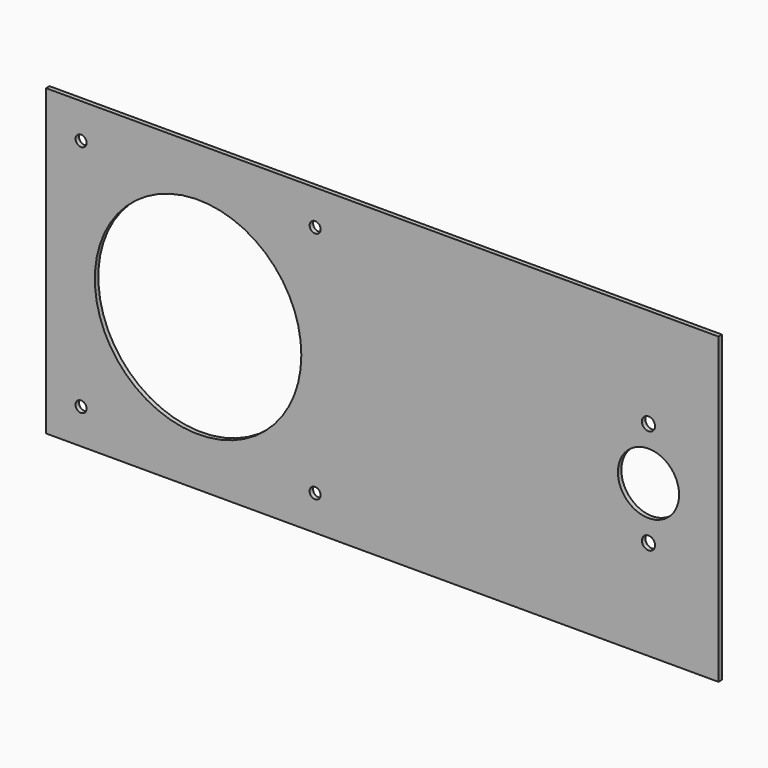
from build123d import *

# Parameters (mm, degrees)
F0_R     = 4
F0_R_2   = 75
F0_R_3   = 4.7625
F0_R_4   = 22.225
F1_DEPTH = 3.175


with BuildPart() as f1:
    # F0 (on Front) → F1 (new body)
    with BuildSketch(Plane.XZ):
        Polygon((-140.838728, 148.5138), (-140.838728, -72.2862), (347.514372, -72.2862), (347.514372, 38.1), (347.514372, 148.5138), align=None)
        with Locations((-115.438728, -46.8862)):
            Circle(F0_R, mode=Mode.SUBTRACT)
        with Locations((54.561272, -46.8862)):
            Circle(F0_R, mode=Mode.SUBTRACT)
        with Locations((-30.437628, 38.1)):
            Circle(F0_R_2, mode=Mode.SUBTRACT)
        with Locations((296.714372, 0)):
            Circle(F0_R_3, mode=Mode.SUBTRACT)
        with Locations((296.714372, 38.1)):
            Circle(F0_R_4, mode=Mode.SUBTRACT)
        with Locations((-115.438728, 123.1138)):
            Circle(F0_R, mode=Mode.SUBTRACT)
        with Locations((54.561272, 123.1138)):
            Circle(F0_R, mode=Mode.SUBTRACT)
        with Locations((296.714372, 76.2)):
            Circle(F0_R_3, mode=Mode.SUBTRACT)
    extrude(amount=F1_DEPTH)


solid = f1.part
